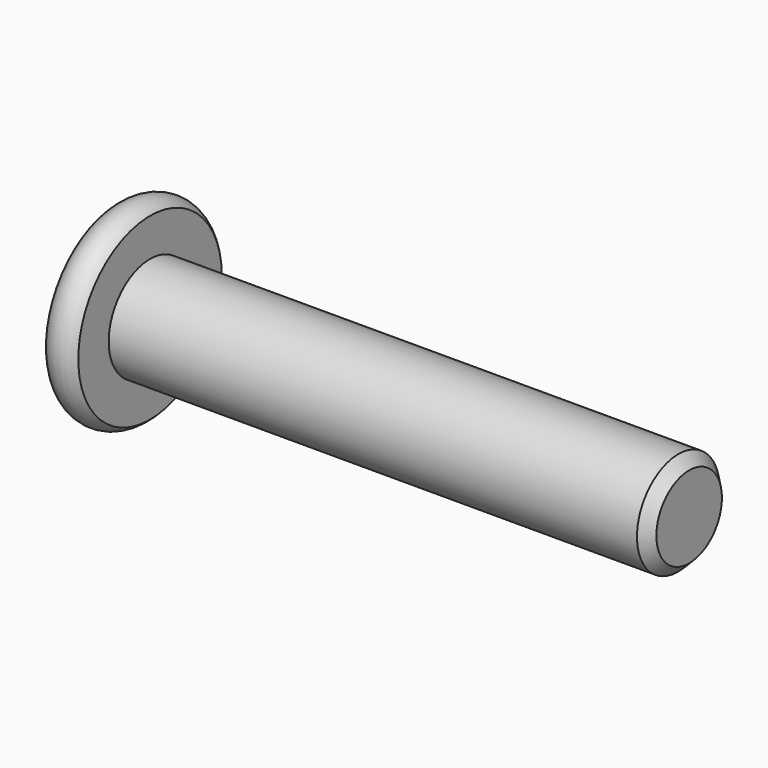
from build123d import *

# Parameters (mm, degrees)
PRISM_DEPTH = 2.5


with BuildPart() as part:
    # Sketch_002 → Revolution (revolve)
    with BuildSketch(Plane.XY):
        with BuildLine():
            Line((-1.5, 4.161438), (-1.5, 1.75))
            Line((-1.5, 1.75), (0.25, 0))
            Line((0.25, 0), (25, 0))
            Line((25, 0), (25, 1.9))
            Line((25, 1.9), (24.5, 2.4))
            Line((24.5, 2.4), (0, 2.4))
            Line((0, 2.4), (0, 4.161438))
            ThreePointArc((0, 4.161438), (-0.75, 4.5), (-1.5, 4.161438))
        make_face()
    revolve(axis=Axis((0, 0, 0), (1, 0, 0)))

    # Prism → Prism (cut)
    with BuildSketch(Plane(origin=(-1.5, 0, 0), x_dir=(0, 0, 1), z_dir=(1, 0, 0))):
        Polygon((1.732051, 0), (0.866025, 1.5), (-0.866025, 1.5), (-1.732051, 0), (-0.866025, -1.5), (0.866025, -1.5), align=None)
    extrude(amount=PRISM_DEPTH, mode=Mode.SUBTRACT)


solid = part.part
